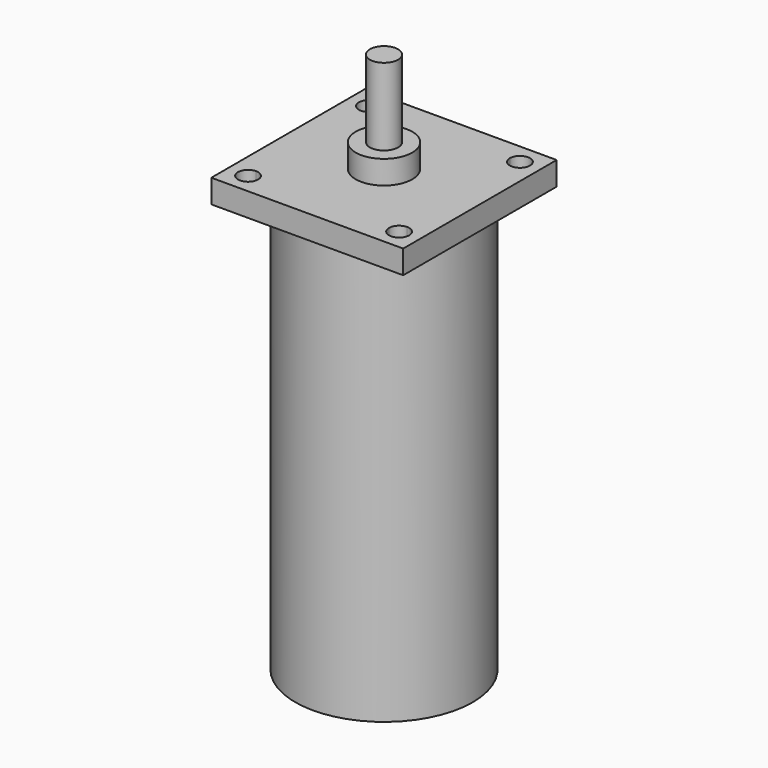
from build123d import *

# Parameters (mm, degrees)
F0_W     = 40
F0_H     = 40
F0_R     = 5.9
F0_R_2   = 2.95
F1_DEPTH = 4.9
F2_DEPTH = 21
F3_DEPTH = 4.9
F4_R     = 18.5
F5_DEPTH = 87


with BuildPart() as f1:
    # F0 (on Top) → F1 (new body)
    with BuildSketch(Plane.XY):
        Rectangle(F0_W, F0_H)
        with BuildLine():
            ThreePointArc((-15.75, 13.65), (-17.2349242405, 17.2349242405), (-13.65, 15.75))
            Line((-13.65, 15.75), (13.65, 15.75))
            ThreePointArc((13.65, 15.75), (15.75, 17.85), (17.85, 15.75))
            ThreePointArc((17.85, 15.75), (17.2349242405, 14.2650757595), (15.75, 13.65))
            Line((15.75, 13.65), (15.75, -13.65))
            ThreePointArc((15.75, -13.65), (17.2349242405, -14.2650757595), (17.85, -15.75))
            ThreePointArc((17.85, -15.75), (15.75, -17.85), (13.65, -15.75))
            Line((13.65, -15.75), (-13.65, -15.75))
            ThreePointArc((-13.65, -15.75), (-17.2349242405, -17.2349242405), (-15.75, -13.65))
            Line((-15.75, -13.65), (-15.75, 13.65))
        make_face(mode=Mode.SUBTRACT)
        with BuildLine():
            Line((13.65, 15.75), (-13.65, 15.75))
            ThreePointArc((-13.65, 15.75), (-14.2650757595, 14.2650757595), (-15.75, 13.65))
            Line((-15.75, 13.65), (-15.75, -13.65))
            ThreePointArc((-15.75, -13.65), (-14.2650757595, -14.2650757595), (-13.65, -15.75))
            Line((-13.65, -15.75), (13.65, -15.75))
            ThreePointArc((13.65, -15.75), (14.2650757595, -14.2650757595), (15.75, -13.65))
            Line((15.75, -13.65), (15.75, 13.65))
            ThreePointArc((15.75, 13.65), (14.2650757595, 14.2650757595), (13.65, 15.75))
        make_face()
        Circle(F0_R, mode=Mode.SUBTRACT)
        Circle(F0_R)
        Circle(F0_R_2, mode=Mode.SUBTRACT)
        Circle(F0_R_2)
    extrude(amount=-F1_DEPTH)

    # F0 (on Top) → F2 (join)
    with BuildSketch(Plane.XY):
        Circle(F0_R_2)
    extrude(amount=F2_DEPTH)

    # F0 (on Top) → F3 (join)
    with BuildSketch(Plane.XY):
        Circle(F0_R)
        Circle(F0_R_2, mode=Mode.SUBTRACT)
    extrude(amount=F3_DEPTH)

    # F4 (on face) → F5 (join)
    with BuildSketch(Plane(origin=(0, 0, -4.9), x_dir=(1, 0, 0), z_dir=(0, 0, -1))):
        Circle(F4_R)
    extrude(amount=F5_DEPTH)


solid = f1.part
